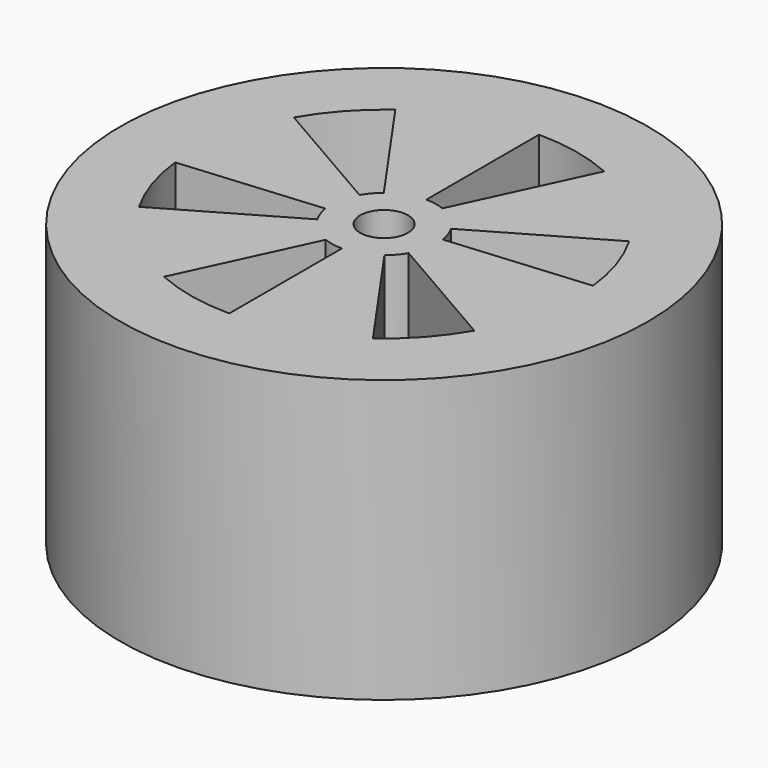
from build123d import *

# Parameters (mm, degrees)
F0_R     = 7.5
F1_DEPTH = 8
F3_DEPTH = 100
F4_R     = 0.67804
F5_DEPTH = 100


with BuildPart() as f1:
    # F0 (on Top) → F1 (new body)
    with BuildSketch(Plane.XY):
        Circle(F0_R)
    extrude(amount=F1_DEPTH)

    # F2 (on face) → F3 (cut)
    with BuildSketch(Plane.XY.offset(8)):
        with BuildLine():
            ThreePointArc((0, 1.5), (0.274417, 1.474685), (0.539571, 1.399594))
            Line((0.539571, 1.399594), (2.231121, 5.027136))
            ThreePointArc((2.231121, 5.027136), (1.14034, 5.380485), (0, 5.5))
            Line((0, 5.5), (0, 1.5))
        make_face()
        with BuildLine():
            ThreePointArc((-1.299038, 0.75), (-1.139906, 0.974994), (-0.942299, 1.167079))
            Line((-0.942299, 1.167079), (-3.238067, 4.445776))
            ThreePointArc((-3.238067, 4.445776), (-4.089467, 3.677806), (-4.76314, 2.75))
            Line((-4.76314, 2.75), (-1.299038, 0.75))
        make_face()
        with BuildLine():
            Line((-4.76314, -2.75), (-1.299038, -0.75))
            ThreePointArc((-1.299038, -0.75), (-1.414323, -0.499691), (-1.481869, -0.232515))
            Line((-1.481869, -0.232515), (-5.469188, -0.58136))
            ThreePointArc((-5.469188, -0.58136), (-5.229807, -1.702679), (-4.76314, -2.75))
        make_face()
        with BuildLine():
            Line((0, -5.5), (0, -1.5))
            ThreePointArc((0, -1.5), (-0.274417, -1.474685), (-0.539571, -1.399594))
            Line((-0.539571, -1.399594), (-2.231121, -5.027136))
            ThreePointArc((-2.231121, -5.027136), (-1.14034, -5.380485), (0, -5.5))
        make_face()
        with BuildLine():
            Line((4.76314, -2.75), (1.299038, -0.75))
            ThreePointArc((1.299038, -0.75), (1.139906, -0.974994), (0.942299, -1.167079))
            Line((0.942299, -1.167079), (3.238067, -4.445776))
            ThreePointArc((3.238067, -4.445776), (4.089467, -3.677806), (4.76314, -2.75))
        make_face()
        with BuildLine():
            ThreePointArc((1.299038, 0.75), (1.414323, 0.499691), (1.481869, 0.232515))
            Line((1.481869, 0.232515), (5.469188, 0.58136))
            ThreePointArc((5.469188, 0.58136), (5.229807, 1.702679), (4.76314, 2.75))
            Line((4.76314, 2.75), (1.299038, 0.75))
        make_face()
    extrude(amount=-F3_DEPTH, mode=Mode.SUBTRACT)

    # F4 (on face) → F5 (cut)
    with BuildSketch(Plane.XY.offset(8)):
        Circle(F4_R)
    extrude(amount=-F5_DEPTH, mode=Mode.SUBTRACT)


solid = f1.part
